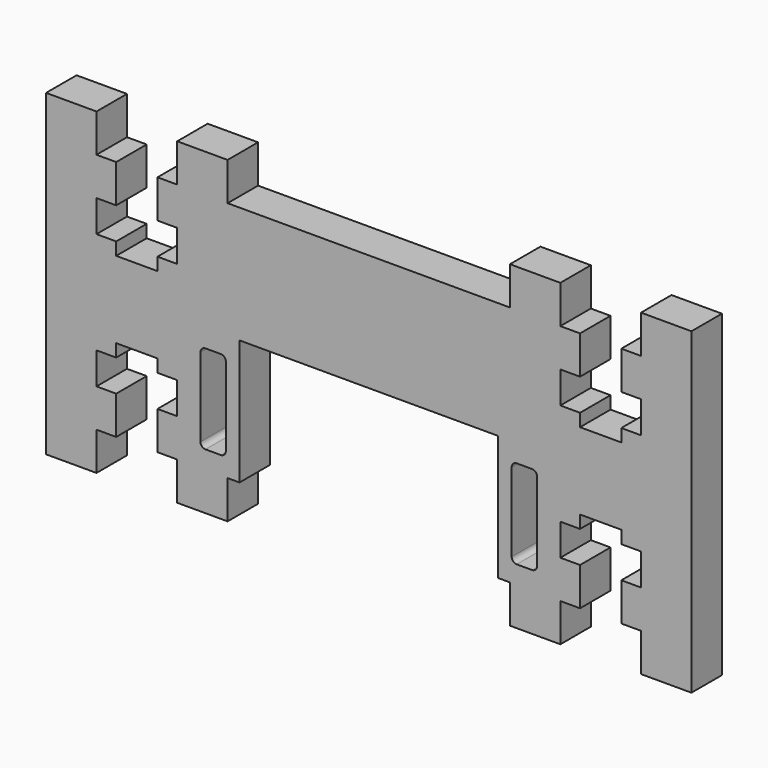
from build123d import *

# Parameters (mm, degrees)
F0_W     = 4
F0_H     = 14
F1_DEPTH = 6
F2_R     = 0.8
F3_W     = 7.9375
F3_H     = 6
F4_DEPTH = 6
F5_W     = 7.9375
F5_H     = 6
F6_DEPTH = 6
F8_DEPTH = 25.4


with BuildPart() as f1:
    # F0 (on Front) → F1 (new body)
    with BuildSketch(Plane.XZ):
        Polygon((50.8, 38.1), (-50.8, 38.1), (-50.8, 0), (-20.35, 0), (-20.35, 19.7), (20.35, 19.7), (20.35, 0), (50.8, 0), align=None)
        with Locations((-24.5, 9.85)):
            Rectangle(F0_W, F0_H, mode=Mode.SUBTRACT)
        with Locations((24.5, 9.85)):
            Rectangle(F0_W, F0_H, mode=Mode.SUBTRACT)
    extrude(amount=F1_DEPTH)

    # F2
    f2_edges = [f1.edges().sort_by_distance(p)[0] for p in [
        (-26.5, -3, 16.85),
        (-22.5, -3, 2.85),
        (-22.5, -3, 16.85),
        (-26.5, -3, 2.85),
        (22.5, -3, 2.85),
        (22.5, -3, 16.85),
        (26.5, -3, 16.85),
        (26.5, -3, 2.85),
    ]]
    fillet(f2_edges, radius=F2_R)

    # F3 (on face) → F4 (join)
    with BuildSketch(Plane(origin=(0, 0, 0), x_dir=(1, 0, 0), z_dir=(0, 0, -1))):
        with Locations((-46.83125, 3)):
            Rectangle(F3_W, F3_H)
        with Locations((46.83125, 3)):
            Rectangle(F3_W, F3_H)
        with Locations((-26.19375, 3)):
            Rectangle(F3_W, F3_H)
        with Locations((26.19375, 3)):
            Rectangle(F3_W, F3_H)
    extrude(amount=F4_DEPTH)

    # F5 (on face) → F6 (join)
    with BuildSketch(Plane.XY.offset(38.1)):
        with Locations((-46.83125, -3)):
            Rectangle(F5_W, F5_H)
        with Locations((-26.19375, -3)):
            Rectangle(F5_W, F5_H)
        with Locations((26.19375, -3)):
            Rectangle(F5_W, F5_H)
        with Locations((46.83125, -3)):
            Rectangle(F5_W, F5_H)
    extrude(amount=F6_DEPTH)

    # F7 (on face) → F8 (cut)
    with BuildSketch(Plane.XZ.offset(6)):
        Polygon((-33.2625, 38.1), (-36.5125, 38.1), (-39.7625, 38.1), (-39.7625, 32.1), (-42.8625, 32.1), (-42.8625, 27.1), (-39.7625, 27.1), (-39.7625, 25.1), (-36.5125, 25.1), (-33.2625, 25.1), (-33.2625, 27.1), (-30.1625, 27.1), (-30.1625, 32.1), (-33.2625, 32.1), align=None)
        Polygon((39.7625, 32.1), (39.7625, 38.1), (36.5125, 38.1), (33.2625, 38.1), (33.2625, 32.1), (30.1625, 32.1), (30.1625, 27.1), (33.2625, 27.1), (33.2625, 25.1), (36.5125, 25.1), (39.7625, 25.1), (39.7625, 27.1), (42.8625, 27.1), (42.8625, 32.1), align=None)
        Polygon((33.2625, 6), (33.2625, 0), (36.5125, 0), (39.7625, 0), (39.7625, 6), (42.8625, 6), (42.8625, 11), (39.7625, 11), (39.7625, 13), (36.5125, 13), (33.2625, 13), (33.2625, 11), (30.1625, 11), (30.1625, 6), align=None)
        Polygon((-39.7625, 6), (-39.7625, 0), (-36.5125, 0), (-33.2625, 0), (-33.2625, 6), (-30.1625, 6), (-30.1625, 11), (-33.2625, 11), (-33.2625, 13), (-36.5125, 13), (-39.7625, 13), (-39.7625, 11), (-42.8625, 11), (-42.8625, 6), align=None)
    extrude(amount=-F8_DEPTH, mode=Mode.SUBTRACT)


solid = f1.part
